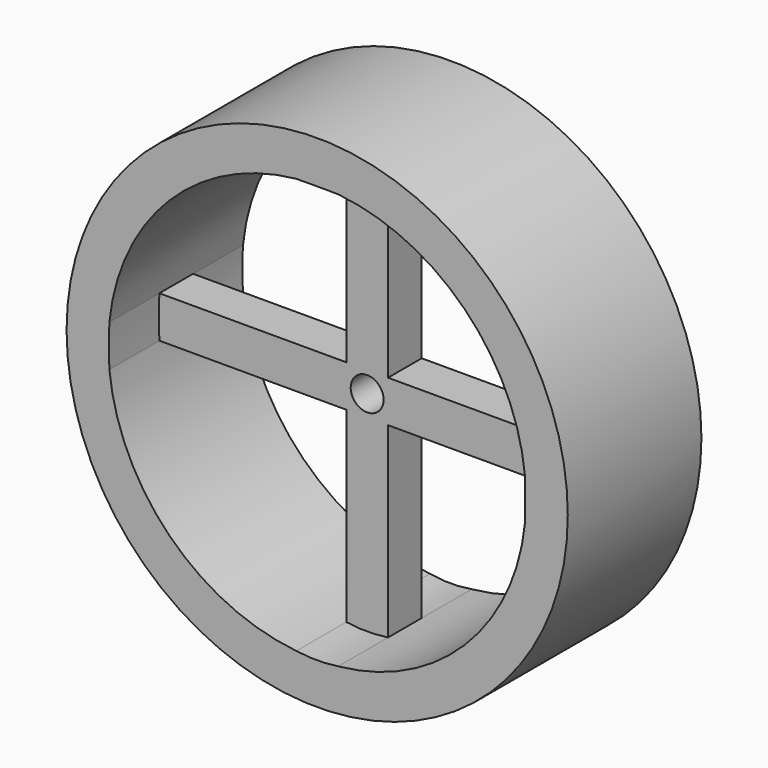
from build123d import *

# Parameters (mm, degrees)
F0_R     = 76.2
F0_R_2   = 5
F1_DEPTH = 25.4
F2_R     = 5
F3_DEPTH = 19
F4_R     = 5
F5_DEPTH = 19


with BuildPart() as f1:
    # F0 (on Front) → F1 (new body, symmetric)
    with BuildSketch(Plane.XZ):
        Circle(F0_R)
        with BuildLine():
            ThreePointArc((-6.35, -63.181702), (-44.901281, -44.901281), (-63.181702, -6.35))
            Line((-63.181702, -6.35), (-6.35, -6.35))
            Line((-6.35, -6.35), (-6.35, -63.181702))
        make_face(mode=Mode.SUBTRACT)
        with BuildLine():
            Line((6.35, -6.35), (63.181702, -6.35))
            ThreePointArc((63.181702, -6.35), (44.901281, -44.901281), (6.35, -63.181702))
            Line((6.35, -63.181702), (6.35, -6.35))
        make_face(mode=Mode.SUBTRACT)
        with BuildLine():
            ThreePointArc((-63.181702, 6.35), (-44.901281, 44.901281), (-6.35, 63.181702))
            Line((-6.35, 63.181702), (-6.35, 6.35))
            Line((-6.35, 6.35), (-63.181702, 6.35))
        make_face(mode=Mode.SUBTRACT)
        Circle(F0_R_2, mode=Mode.SUBTRACT)
        with BuildLine():
            Line((6.35, 6.35), (6.35, 63.181702))
            ThreePointArc((6.35, 63.181702), (44.901281, 44.901281), (63.181702, 6.35))
            Line((63.181702, 6.35), (6.35, 6.35))
        make_face(mode=Mode.SUBTRACT)
    extrude(amount=F1_DEPTH, both=True)

    # F2 (on face) → F3 (cut)
    with BuildSketch(Plane.XZ.offset(25.4)):
        with BuildLine():
            Line((-6.35, 6.35), (-63.181702, 6.35))
            ThreePointArc((-63.181702, 6.35), (-63.322942, 0), (-63.181702, -6.35))
            Line((-63.181702, -6.35), (-6.35, -6.35))
            Line((-6.35, -6.35), (-6.35, -63.181702))
            ThreePointArc((-6.35, -63.181702), (0, -63.649263), (6.35, -63.181702))
            Line((6.35, -63.181702), (6.35, -6.35))
            Line((6.35, -6.35), (63.181702, -6.35))
            ThreePointArc((63.181702, -6.35), (63.272965, 0), (63.181702, 6.35))
            Line((63.181702, 6.35), (6.35, 6.35))
            Line((6.35, 6.35), (6.35, 63.181702))
            ThreePointArc((6.35, 63.181702), (0, 63.211711), (-6.35, 63.181702))
            Line((-6.35, 63.181702), (-6.35, 6.35))
        make_face()
        Circle(F2_R, mode=Mode.SUBTRACT)
    extrude(amount=-F3_DEPTH, mode=Mode.SUBTRACT)

    # F4 (on face) → F5 (cut)
    with BuildSketch(Plane(origin=(0, 25.4, 0), x_dir=(-1, 0, 0), z_dir=(0, 1, 0))):
        with BuildLine():
            Line((6.35, 6.35), (6.35, 63.181702))
            ThreePointArc((6.35, 63.181702), (0, 63.522837), (-6.35, 63.181702))
            Line((-6.35, 63.181702), (-6.35, 6.35))
            Line((-6.35, 6.35), (-63.181702, 6.35))
            ThreePointArc((-63.181702, 6.35), (-63.393876, 0), (-63.181702, -6.35))
            Line((-63.181702, -6.35), (-6.35, -6.35))
            Line((-6.35, -6.35), (-6.35, -63.181702))
            ThreePointArc((-6.35, -63.181702), (0, -63.739805), (6.35, -63.181702))
            Line((6.35, -63.181702), (6.35, -6.35))
            Line((6.35, -6.35), (63.181702, -6.35))
            ThreePointArc((63.181702, -6.35), (63.425239, 0), (63.181702, 6.35))
            Line((63.181702, 6.35), (6.35, 6.35))
        make_face()
        Circle(F4_R, mode=Mode.SUBTRACT)
    extrude(amount=-F5_DEPTH, mode=Mode.SUBTRACT)


solid = f1.part
